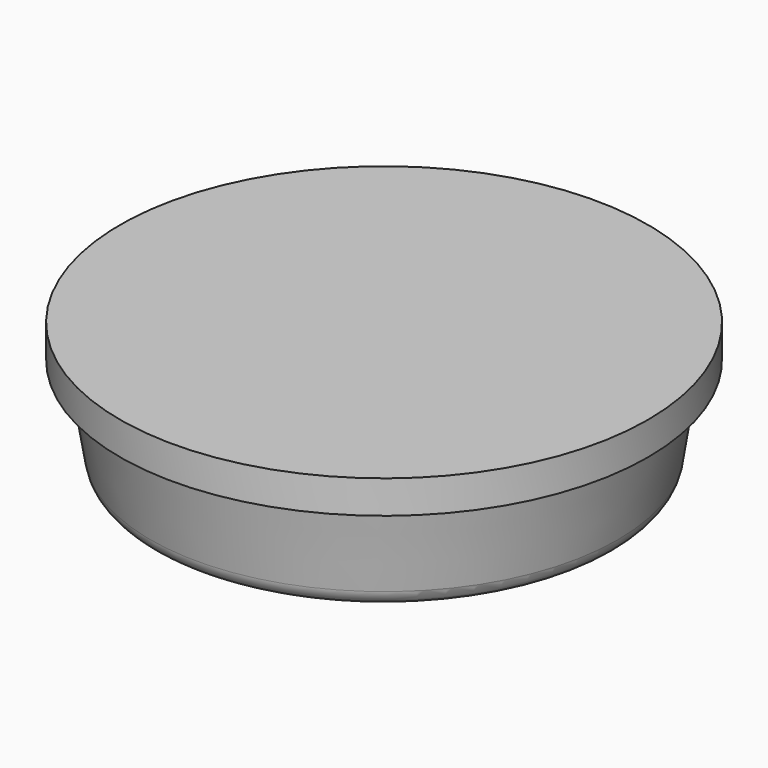
from build123d import *


with BuildPart() as f1:
    # F0 (on Front) → F1 (revolve)
    with BuildSketch(Plane.XZ):
        with BuildLine():
            Line((4, 0), (0, 0))
            Line((0, 0), (0, -2))
            Line((0, -2), (3.245862, -2))
            ThreePointArc((3.245862, -2), (3.439774, -1.928906), (3.54178, -1.74932))
            Line((3.54178, -1.74932), (3.75, -0.5))
            Line((3.75, -0.5), (4, -0.5))
            Line((4, -0.5), (4, 0))
        make_face()
    revolve(axis=Axis((0, 0, -1), (0, 0, 1)))


with BuildPart() as f3:
    # F2 (on Front) → F3 (revolve)
    with BuildSketch(Plane.XZ):
        with BuildLine():
            Line((4, 0), (0, 0))
            Line((0, 0), (0, -2))
            Line((0, -2), (0.5, -2))
            ThreePointArc((0.5, -2), (2.202916, -1.655641), (3.638233, -0.676677))
            Line((3.638233, -0.676677), (3.75, -0.5))
            Line((3.75, -0.5), (4, -0.5))
            Line((4, -0.5), (4, 0))
        make_face()
    revolve(axis=Axis((0, 0, -1), (0, 0, -1)))


solid = Compound([f1.part, f3.part])
